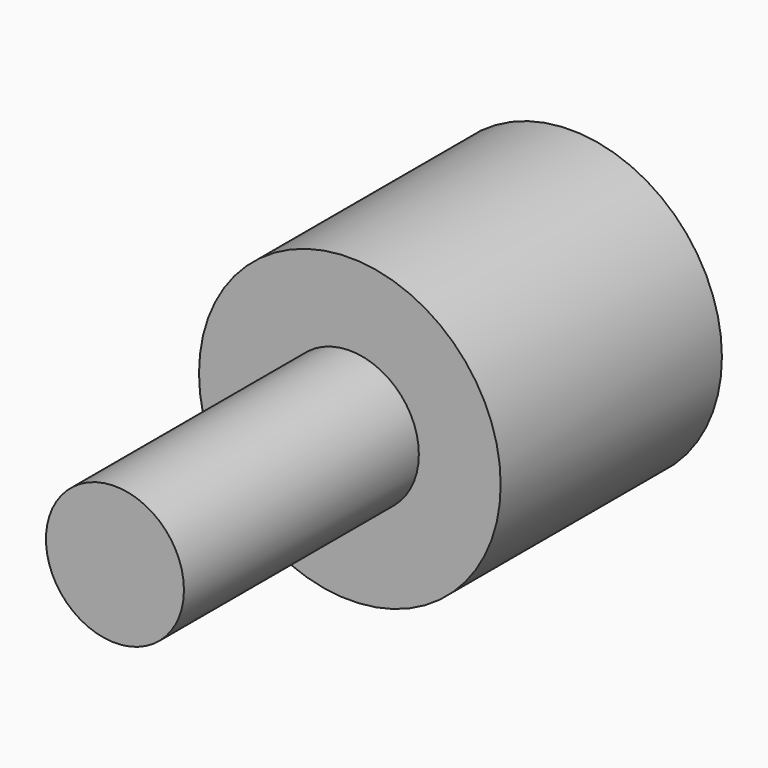
from build123d import *

# Parameters (mm, degrees)
F0_R      = 19.05
F1_DEPTH  = 17.4625
F2_R      = 8.7141687226
F3_DEPTH  = 37.084
F4_R      = 12.7
F5_DEPTH  = 5.08
F6_R      = 5.3581350259
F7_DEPTH  = 31.75
F10_W     = 6.35
F10_H     = 5.08
F11_DEPTH = 3.175


with BuildPart() as f1:
    # F0 (on Front) → F1 (new body, symmetric)
    with BuildSketch(Plane.XZ):
        Circle(F0_R)
    extrude(amount=F1_DEPTH, both=True)

    # F2 (on face) → F3 (join)
    with BuildSketch(Plane.XZ.offset(17.4625)):
        Circle(F2_R)
    extrude(amount=F3_DEPTH)

    # F4 (on face) → F5 (join)
    with BuildSketch(Plane(origin=(0, 17.4625, 0), x_dir=(-1, 0, 0), z_dir=(0, 1, 0))):
        Circle(F4_R)
    extrude(amount=F5_DEPTH)

    # F6 (on face) → F7 (cut)
    with BuildSketch(Plane(origin=(0, 22.5425, 0), x_dir=(-1, 0, 0), z_dir=(0, 1, 0))):
        Circle(F6_R)
    extrude(amount=-F7_DEPTH, mode=Mode.SUBTRACT)

    # F10 (on plane+point) → F11 (cut)
    with BuildSketch(Plane.XY.offset(12.7)):
        with Locations((0, 20.0025)):
            Rectangle(F10_W, F10_H)
    extrude(amount=-F11_DEPTH, mode=Mode.SUBTRACT)


solid = f1.part
